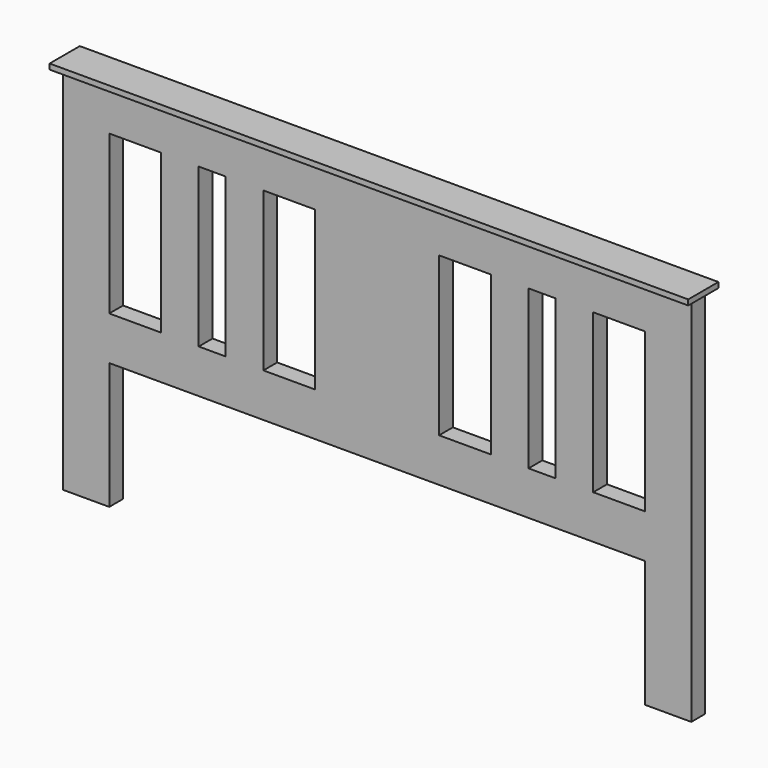
from build123d import *

# Parameters (mm, degrees)
F0_W     = 1185
F0_H     = 70
F1_DEPTH = 10
F2_W     = 86
F2_H     = 32
F3_DEPTH = 691
F4_W     = 32
F4_H     = 81
F5_DEPTH = 994
F6_W     = 70
F6_H     = 32
F6_W_2   = 230
F7_DEPTH = 294


with BuildPart() as f1:
    # F0 (on Top) → F1 (new body)
    with BuildSketch(Plane.XY):
        with Locations((592.5, 35)):
            Rectangle(F0_W, F0_H)
    extrude(amount=-F1_DEPTH)

    # F2 (on face) → F3 (join)
    with BuildSketch(Plane(origin=(0, 0, -10), x_dir=(1, 0, 0), z_dir=(0, 0, -1))):
        with Locations((52.5, -35)):
            Rectangle(F2_W, F2_H)
        with Locations((1132.5, -35)):
            Rectangle(F2_W, F2_H)
    extrude(amount=F3_DEPTH)

    # F4 (on face) → F5 (join, through all)
    with BuildSketch(Plane(origin=(1089.5, 0, 0), x_dir=(0, -1, 0), z_dir=(-1, 0, 0))):
        with Locations((-35, -50.5)):
            Rectangle(F4_W, F4_H)
        with Locations((-35, -425.5)):
            Rectangle(F4_W, F4_H)
    extrude(amount=F5_DEPTH)

    # F6 (on face) → F7 (join, through all)
    with BuildSketch(Plane.XY.offset(-385)):
        with Locations((958.5, 35)):
            Rectangle(F6_W, F6_H)
        with Locations((838.5, 35)):
            Rectangle(F6_W, F6_H)
        with Locations((592.5, 35)):
            Rectangle(F6_W_2, F6_H)
        with Locations((346.5, 35)):
            Rectangle(F6_W, F6_H)
        with Locations((226.5, 35)):
            Rectangle(F6_W, F6_H)
    extrude(amount=F7_DEPTH)


solid = f1.part
